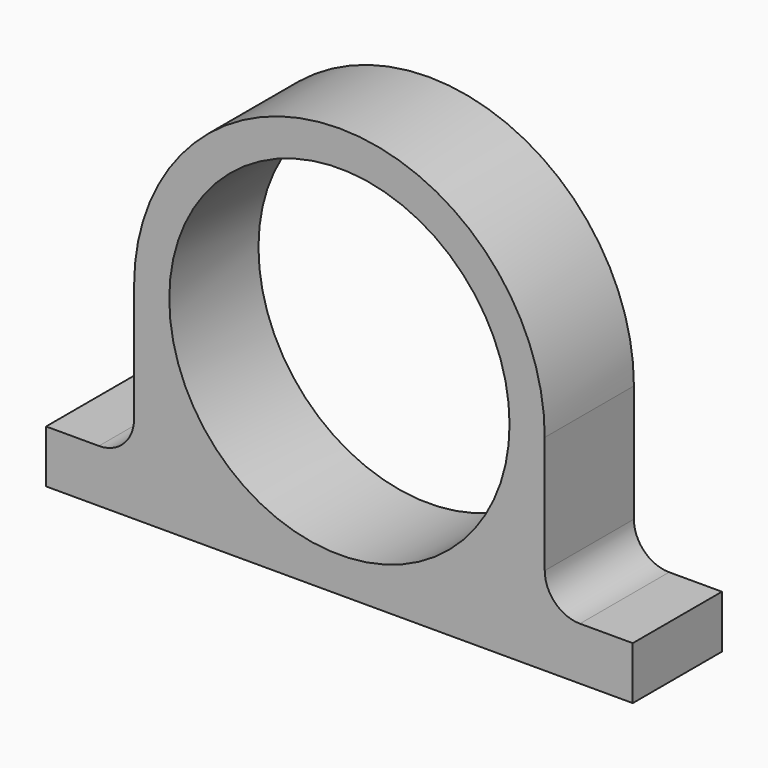
from build123d import *

# Parameters (mm, degrees)
F0_R     = 29
F1_DEPTH = 19
F2_R     = 6


with BuildPart() as f1:
    # F0 (on Front) → F1 (new body)
    with BuildSketch(Plane.XZ):
        with BuildLine():
            Line((35, -26), (35, 0))
            ThreePointArc((35, 0), (0, 35), (-35, 0))
            Line((-35, 0), (-35, -26))
            Line((-35, -26), (-50, -26))
            Line((-50, -26), (-50, -35))
            Line((-50, -35), (0, -35))
            Line((0, -35), (50, -35))
            Line((50, -35), (50, -26))
            Line((50, -26), (35, -26))
        make_face()
        Circle(F0_R, mode=Mode.SUBTRACT)
    extrude(amount=F1_DEPTH)

    # F2
    f2_edges = [f1.edges().sort_by_distance(p)[0] for p in [
        (-35, -9.5, -26),
        (35, -9.5, -26),
    ]]
    fillet(f2_edges, radius=F2_R)


solid = f1.part
